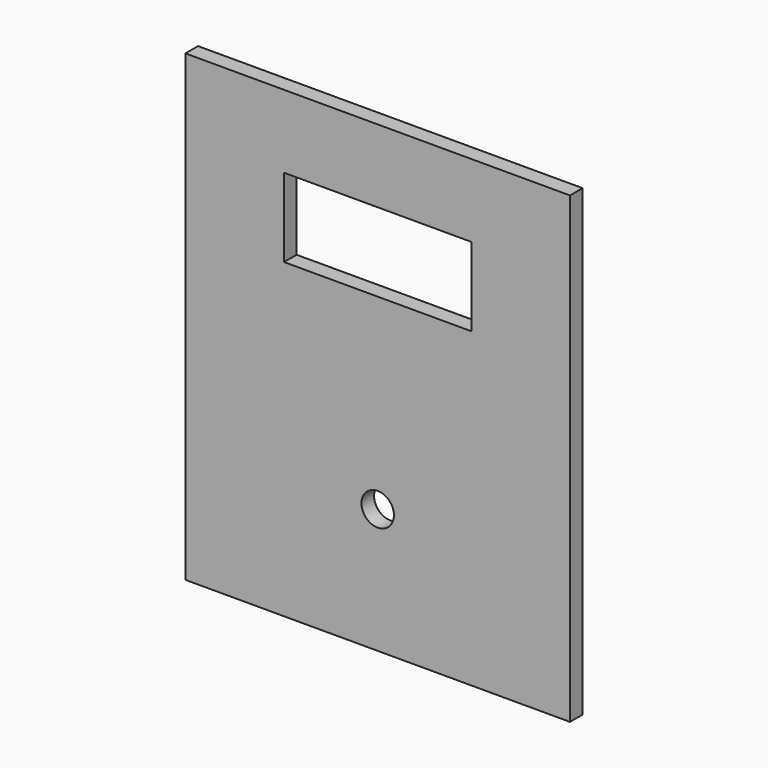
from build123d import *

# Parameters (mm, degrees)
F0_W     = 195
F0_H     = 235
F0_R     = 8.223933
F0_W_2   = 95
F0_H_2   = 39.881699
F1_DEPTH = 4.000005


with BuildPart() as f1:
    # F0 (on Front) → F1 (new body, symmetric)
    with BuildSketch(Plane.XZ):
        Rectangle(F0_W, F0_H)
        with Locations((0, -54.276067)):
            Circle(F0_R, mode=Mode.SUBTRACT)
        with Locations((0, 60.559151)):
            Rectangle(F0_W_2, F0_H_2, mode=Mode.SUBTRACT)
    extrude(amount=F1_DEPTH, both=True)


solid = f1.part
